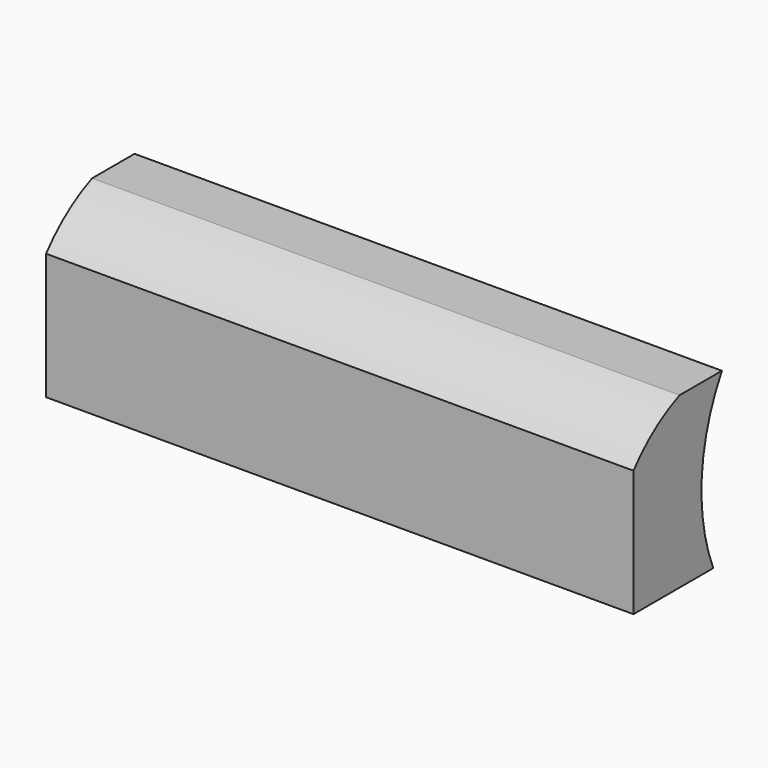
from build123d import *

# Parameters (mm, degrees)
F1_DEPTH = 243.013799


with BuildPart() as f1:
    # F0 (on Right) → F1 (new body)
    with BuildSketch(Plane.YZ):
        with BuildLine():
            Line((18.06676, -5.630465), (18.06676, -57.906479))
            Line((18.06676, -57.906479), (26.591718, -57.906479))
            Line((26.591718, -57.906479), (59.328796, -57.906479))
            ThreePointArc((59.328796, -57.906479), (53.388782, -22.34567), (63.808726, 12.169249))
            Line((63.808726, 12.169249), (41.87582, 12.169249))
            ThreePointArc((41.87582, 12.169249), (28.843283, 4.778225), (18.06676, -5.630465))
        make_face()
    extrude(amount=F1_DEPTH)


solid = f1.part
